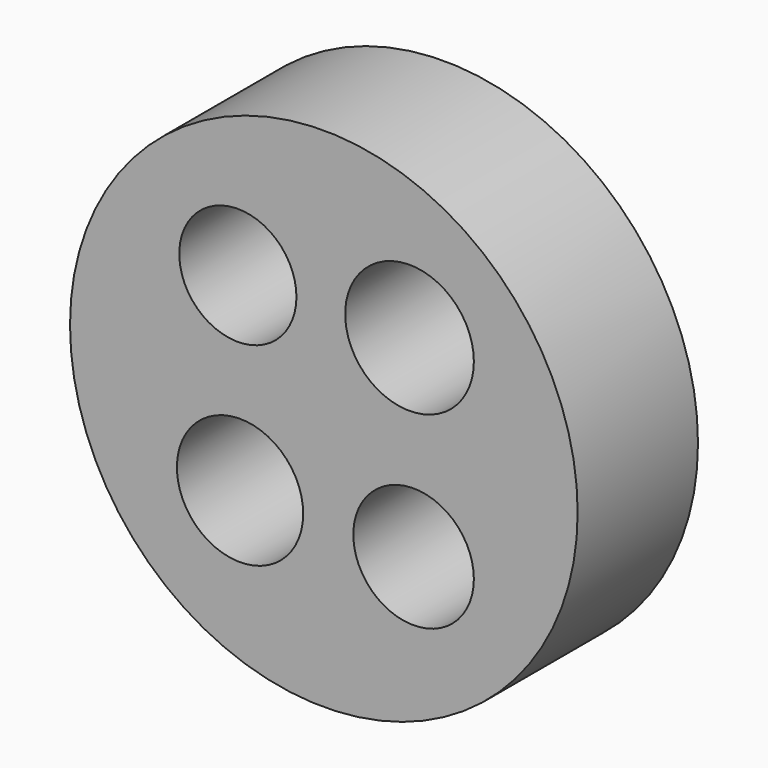
from build123d import *

# Parameters (mm, degrees)
F0_R     = 8.5725
F1_DEPTH = 5.08
F2_R     = 1.978585
F2_R_2   = 2.173003
F2_R_3   = 2.035542
F2_R_4   = 2.132424
F3_DEPTH = 25.4


with BuildPart() as f1:
    # F0 (on Front) → F1 (new body)
    with BuildSketch(Plane.XZ):
        Circle(F0_R)
    extrude(amount=F1_DEPTH)

    # F2 (on face) → F3 (cut)
    with BuildSketch(Plane.XZ.offset(5.08)):
        with Locations((-2.903941, 3.318625)):
            Circle(F2_R)
        with Locations((2.893627, 3.346862)):
            Circle(F2_R_2)
        with Locations((3.031285, -3.119588)):
            Circle(F2_R_3)
        with Locations((-2.829817, -3.053699)):
            Circle(F2_R_4)
    extrude(amount=-F3_DEPTH, mode=Mode.SUBTRACT)


solid = f1.part
